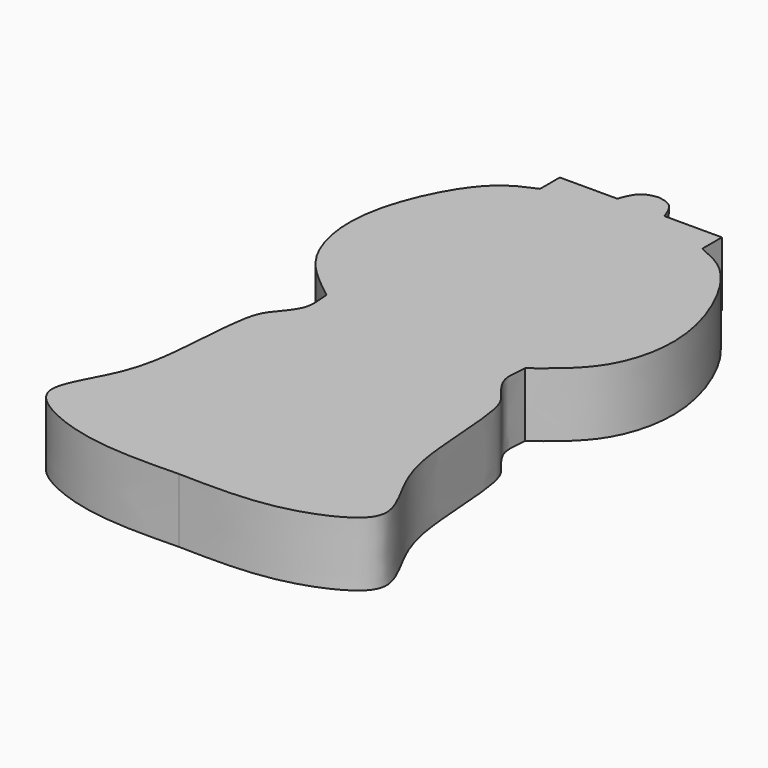
from build123d import *

# Parameters (mm, degrees)
F1_DEPTH = 10


with BuildPart() as f1:
    # F0 (on Top) → F1 (new body)
    with BuildSketch(Plane.XY):
        with BuildLine():
            add(Edge.make_bspline(
                [(0, 56.8773113191), (0.8054235015, 56.7355107175), (2.5282170988, 56.4322005111), (3.2783261719, 54.4782552335), (3.6777516361, 53.4377992153)],
                knots=[0, 0, 0, 0, 0.4675101549, 1, 1, 1, 1], degree=3))
            add(Edge.make_bspline(
                [(0, 56.8773113191), (-0.8054235015, 56.7355107175), (-2.5282170988, 56.4322005111), (-3.2783261719, 54.4782552335), (-3.6777516361, 53.4377992153)],
                knots=[0, 0, 0, 0, 0.4675101549, 1, 1, 1, 1], degree=3))
            Line((-3.6777516361, 53.4377992153), (-12.6204816625, 53.4377992153))
            Line((-12.6204816625, 53.4377992153), (-12.6204816625, 49.6052019298))
            add(Edge.make_bspline(
                [(-12.6204816625, 49.6052019298), (-14.2292043355, 48.9309336469), (-18.1356514841, 47.2977728965), (-23.491041923, 38.6597412116), (-26.1695869874, 27.8273338957), (-23.2800031482, 17.9260135091), (-17.7682202454, 13.4101466747), (-15.8614338942, 11.8365177177), (-15.4396751896, 11.5627255291)],
                knots=[0, 0, 0, 0, 0.1456055555, 0.3381046139, 0.5442981339, 0.737621003, 0.9006913089, 1, 1, 1, 1], degree=3))
            add(Edge.make_bspline(
                [(-15.4396751896, 11.5627255291), (-15.3451802392, 10.1370824505), (-14.8241027078, 7.5357962998), (-17.6383536163, 4.2696618781), (-19.796775762, 1.4933282459), (-20.1749353943, -12.5436288597), (-22.1393711386, -20.5614990323), (-27.1604582277, -28.2344962413), (-24.1954731768, -32.6664090658), (-13.9227619627, -36.7575290948), (-4.9010215255, -36.5603540128), (0, -36.4531837404)],
                knots=[0, 0, 0, 0, 0.0815669811, 0.1614588304, 0.2376385783, 0.3877305251, 0.5127687448, 0.6288302189, 0.7121864321, 0.8446784144, 1, 1, 1, 1], degree=3))
            add(Edge.make_bspline(
                [(15.4396751896, 11.5627255291), (15.3451802392, 10.1370824505), (14.8241027078, 7.5357962998), (17.6383536163, 4.2696618781), (19.796775762, 1.4933282459), (20.1749353943, -12.5436288597), (22.1393711386, -20.5614990323), (27.1604582277, -28.2344962413), (24.1954731768, -32.6664090658), (13.9227619627, -36.7575290948), (4.9010215255, -36.5603540128), (0, -36.4531837404)],
                knots=[0, 0, 0, 0, 0.0815669811, 0.1614588304, 0.2376385783, 0.3877305251, 0.5127687448, 0.6288302189, 0.7121864321, 0.8446784144, 1, 1, 1, 1], degree=3))
            add(Edge.make_bspline(
                [(12.6204816625, 49.6052019298), (14.2292043355, 48.9309336469), (18.1356514841, 47.2977728965), (23.491041923, 38.6597412116), (26.1695869874, 27.8273338957), (23.2800031482, 17.9260135091), (17.7682202454, 13.4101466747), (15.8614338942, 11.8365177177), (15.4396751896, 11.5627255291)],
                knots=[0, 0, 0, 0, 0.1456055555, 0.3381046139, 0.5442981339, 0.737621003, 0.9006913089, 1, 1, 1, 1], degree=3))
            Line((12.6204816625, 49.6052019298), (12.6204816625, 53.4377992153))
            Line((12.6204816625, 53.4377992153), (3.6777516361, 53.4377992153))
        make_face()
    extrude(amount=F1_DEPTH)


solid = f1.part
